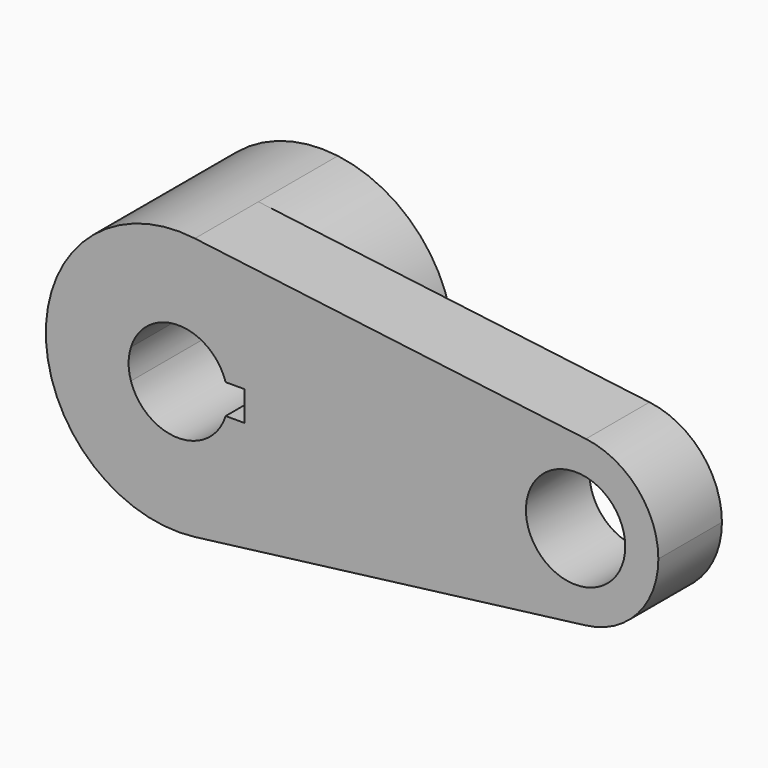
from build123d import *

# Parameters (mm, degrees)
F0_R     = 75
F1_DEPTH = 120
F2_DEPTH = 150


with BuildPart() as f1:
    # F0 (on Front) → F1 (new body)
    with BuildSketch(Plane.XZ):
        with BuildLine():
            ThreePointArc((25, -198.431348), (150, -132.287566), (200, 0))
            ThreePointArc((200, 0), (150, 132.287566), (25, 198.431348))
            ThreePointArc((25, 198.431348), (-200, 0), (25, -198.431348))
        make_face()
        with BuildLine():
            ThreePointArc((-71.54544, 22.5), (0, 75), (71.54544, 22.5))
            Line((71.54544, 22.5), (100, 22.5))
            Line((100, 22.5), (100, -22.5))
            Line((100, -22.5), (71.54544, -22.5))
            ThreePointArc((71.54544, -22.5), (0, -75), (-71.54544, -22.5))
            Line((-71.54544, -22.5), (-100, -22.5))
            Line((-100, -22.5), (-100, 22.5))
            Line((-100, 22.5), (-71.54544, 22.5))
        make_face(mode=Mode.SUBTRACT)
        with BuildLine():
            ThreePointArc((-71.54544, -22.5), (-75, 0), (-71.54544, 22.5))
            Line((-71.54544, 22.5), (-100, 22.5))
            Line((-100, 22.5), (-100, -22.5))
            Line((-100, -22.5), (-71.54544, -22.5))
        make_face()
        with BuildLine():
            ThreePointArc((25, 198.431348), (150, 132.287566), (200, 0))
            ThreePointArc((200, 0), (150, -132.287566), (25, -198.431348))
            Line((25, -198.431348), (615.625, -124.019593))
            ThreePointArc((615.625, -124.019593), (475, 0), (615.625, 124.019593))
            Line((615.625, 124.019593), (25, 198.431348))
        make_face()
        with BuildLine():
            ThreePointArc((725, 0), (693.75, 82.679728), (615.625, 124.019593))
            ThreePointArc((615.625, 124.019593), (475, 0), (615.625, -124.019593))
            ThreePointArc((615.625, -124.019593), (693.75, -82.679728), (725, 0))
        make_face()
        with Locations((600, 0)):
            Circle(F0_R, mode=Mode.SUBTRACT)
    extrude(amount=F1_DEPTH)

    # F0 (on Front) → F2 (join)
    with BuildSketch(Plane.XZ):
        with BuildLine():
            ThreePointArc((25, -198.431348), (150, -132.287566), (200, 0))
            ThreePointArc((200, 0), (150, 132.287566), (25, 198.431348))
            ThreePointArc((25, 198.431348), (-200, 0), (25, -198.431348))
        make_face()
        with BuildLine():
            ThreePointArc((-71.54544, 22.5), (0, 75), (71.54544, 22.5))
            Line((71.54544, 22.5), (100, 22.5))
            Line((100, 22.5), (100, -22.5))
            Line((100, -22.5), (71.54544, -22.5))
            ThreePointArc((71.54544, -22.5), (0, -75), (-71.54544, -22.5))
            Line((-71.54544, -22.5), (-100, -22.5))
            Line((-100, -22.5), (-100, 22.5))
            Line((-100, 22.5), (-71.54544, 22.5))
        make_face(mode=Mode.SUBTRACT)
        with BuildLine():
            ThreePointArc((-71.54544, -22.5), (-75, 0), (-71.54544, 22.5))
            Line((-71.54544, 22.5), (-100, 22.5))
            Line((-100, 22.5), (-100, -22.5))
            Line((-100, -22.5), (-71.54544, -22.5))
        make_face()
    extrude(amount=-F2_DEPTH)


solid = f1.part
